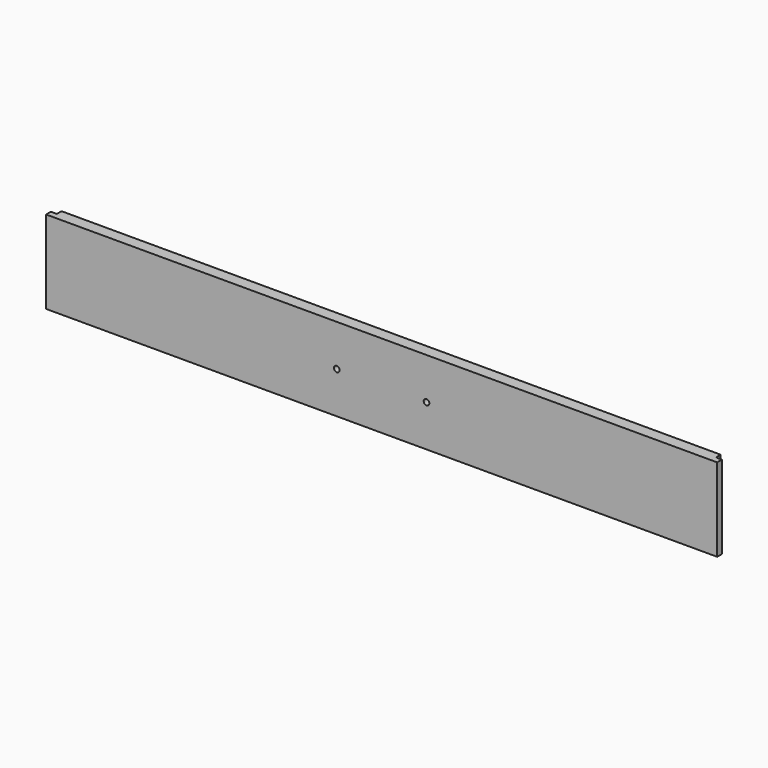
from build123d import *

# Parameters (mm, degrees)
SKETCH_W        = 12.7
SKETCH_H        = 88.9
PAD_DEPTH       = 717.5
SKETCH001_W     = 6.35
SKETCH001_H     = 12.7
POCKET_DEPTH    = 717.501
SKETCH002_W     = 6.35
SKETCH002_H     = 6.35
POCKET001_DEPTH = 88.901
SKETCH003_R     = 3
HOLE_DEPTH      = 12.701


with BuildPart() as part:
    # Sketch → Pad (new body)
    with BuildSketch(Plane.YZ):
        with Locations((6.35, 44.45)):
            Rectangle(SKETCH_W, SKETCH_H)
    extrude(amount=PAD_DEPTH)

    # Sketch001 (on Face6 of Pad) → Pocket (cut, through all)
    with BuildSketch(Plane.YZ.offset(717.5)):
        with Locations((9.525, 12.7)):
            Rectangle(SKETCH001_W, SKETCH001_H)
    extrude(amount=-POCKET_DEPTH, mode=Mode.SUBTRACT)

    # Sketch002 (on Face6 of Pocket) → Pocket001 (cut, through all)
    with BuildSketch(Plane(origin=(0, 0, 88.9), x_dir=(0, -1, 0), z_dir=(0, 0, 1))):
        with Locations((-9.525, 714.325)):
            Rectangle(SKETCH002_W, SKETCH002_H)
        with Locations((-9.525, 3.175)):
            Rectangle(SKETCH002_W, SKETCH002_H)
    extrude(amount=-POCKET001_DEPTH, mode=Mode.SUBTRACT)

    # Sketch003 (on Face9 of Pocket001) → Hole (cut, through all)
    with BuildSketch(Plane(origin=(0, 0, 0), x_dir=(0, 0, -1), z_dir=(0, -1, 0))):
        with Locations((-44.45, 310.75)):
            Circle(SKETCH003_R)
        with Locations((-44.45, 406.75)):
            Circle(SKETCH003_R)
    extrude(amount=-HOLE_DEPTH, mode=Mode.SUBTRACT)


solid = part.part
